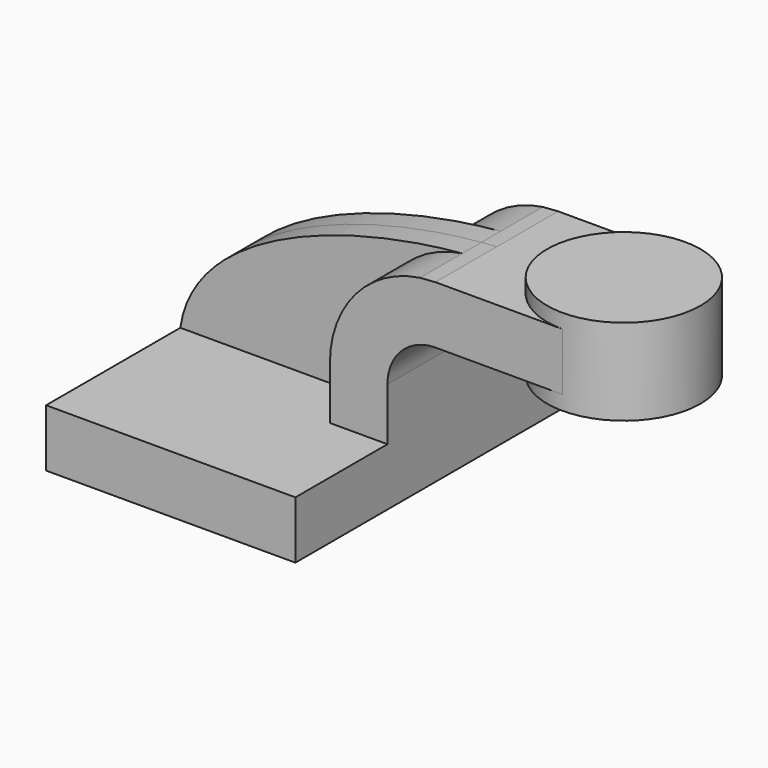
from build123d import *

# Parameters (mm, degrees)
F1_DEPTH = 63.5
F2_DEPTH = 7.9375
F0_W     = 25.4
F0_H     = 19.05
F3_DEPTH = 25.4


with BuildPart() as f1:
    # F0 (on Front) → F1 (new body, symmetric)
    with BuildSketch(Plane.XZ):
        Polygon((22.225, 9.525), (-41.275, 9.525), (-41.275, -9.525), (41.275, -9.525), (41.275, 9.525), align=None)
    extrude(amount=F1_DEPTH, both=True)

    # F0 (on Front) → F2 (join, symmetric)
    with BuildSketch(Plane.XZ):
        with BuildLine():
            add(Edge.make_bspline(
                [(-41.275, 9.525), (-36.750946, 41.332115), (12.617621, 58.127224), (52.07476, 61.55447)],
                knots=[0, 0, 0, 0, 106.867946, 106.867946, 106.867946, 106.867946], degree=3))
            Line((-41.275, 9.525), (22.225, 9.525))
            Line((22.225, 9.525), (22.225, 27.0002))
            ThreePointArc((22.225, 27.0002), (30.72077, 49.831132), (52.07476, 61.55447))
        make_face()
    extrude(amount=F2_DEPTH, both=True)

    # F0 (on Front) → F3 (join, symmetric)
    with BuildSketch(Plane.XZ):
        with BuildLine():
            Line((22.225, 27.0002), (22.225, 9.525))
            Line((22.225, 9.525), (41.275, 9.525))
            Line((41.275, 9.525), (41.275, 27.0002))
            ThreePointArc((41.275, 27.0002), (45.92468, 38.22552), (57.15, 42.8752))
            Line((57.15, 42.8752), (73.83506, 42.8752))
            Line((73.83506, 42.8752), (73.83506, 61.9252))
            Line((73.83506, 61.9252), (57.15, 61.9252))
            add(Edge.make_bspline(
                [(52.07476, 61.55447), (53.786654, 61.703165), (55.479892, 61.826697), (57.15, 61.9252)],
                knots=[106.867946, 106.867946, 106.867946, 106.867946, 111.504536, 111.504536, 111.504536, 111.504536], degree=3))
            ThreePointArc((52.07476, 61.55447), (30.72077, 49.831132), (22.225, 27.0002))
        make_face()
        with Locations((86.53506, 52.4002)):
            Rectangle(F0_W, F0_H)
    extrude(amount=F3_DEPTH, both=True)

    # F0 (on Front) → F4 (revolve)
    with BuildSketch(Plane.XZ):
        Polygon((99.23506, 66.675), (99.23506, 61.9252), (99.23506, 42.8752), (99.23506, 38.1), (124.63506, 38.1), (124.63506, 66.675), align=None)
    revolve(axis=Axis((99.23506, 0, 52.3875), (0, 0, 1)))


solid = f1.part
